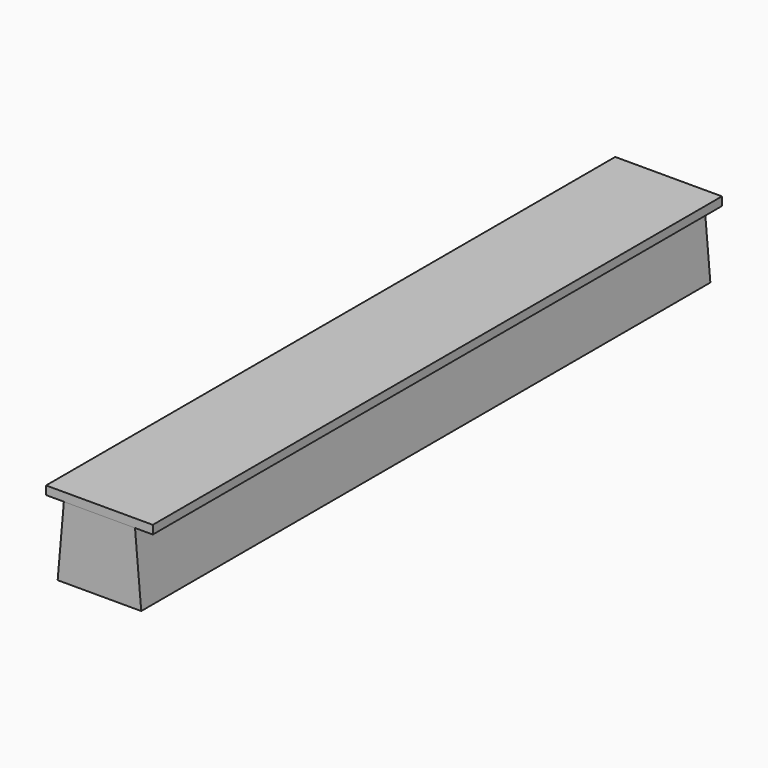
from build123d import *

# Parameters (mm, degrees)
F1_DEPTH = 500
F2_W     = 75
F2_H     = 6
F3_DEPTH = 500


with BuildPart() as f1:
    # F0 (on Front) → F1 (new body)
    with BuildSketch(Plane.XZ):
        Polygon((-25, 50), (-29.374433, 0), (29.374433, 0), (25, 50), align=None)
    extrude(amount=F1_DEPTH)


with BuildPart() as f3:
    # F2 (on Front) → F3 (new body)
    with BuildSketch(Plane.XZ):
        with Locations((0, 53)):
            Rectangle(F2_W, F2_H)
    extrude(amount=F3_DEPTH)


solid = Compound([f1.part, f3.part])
